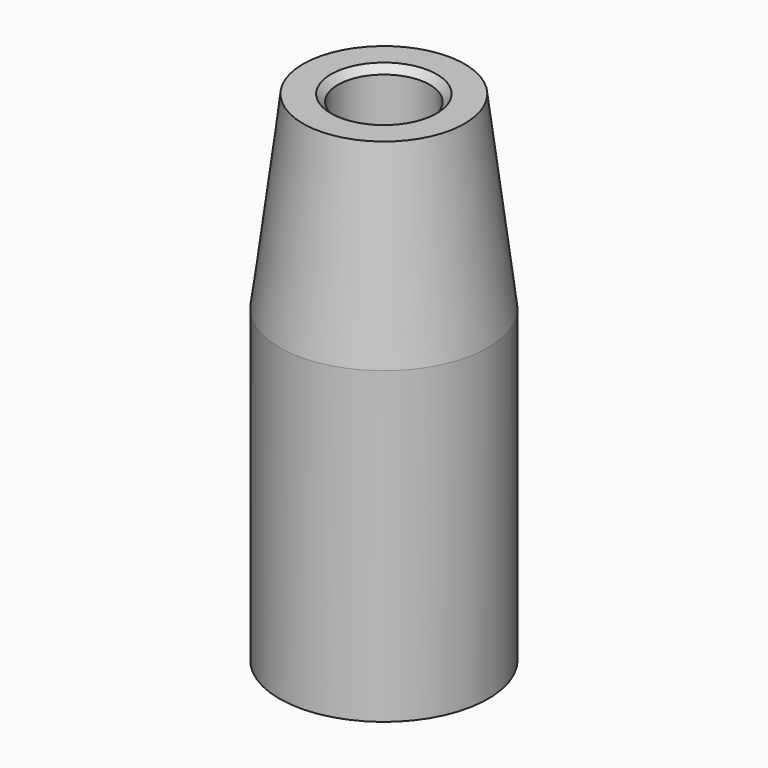
from build123d import *

# Parameters (mm, degrees)
F3_SIZE = 1.27
F4_SIZE = 1.27


with BuildPart() as f2:
    # F0 (on Front) → F2 (revolve)
    with BuildSketch(Plane.XZ):
        Polygon((-8.382, 0), (-8.382, 45.466), (-14.732, 45.466), (-19.05, 10.922), (-19.05, -45.466), (-8.382, -45.466), align=None)
    revolve(axis=Axis((0, 0, 0.149863), (0, 0, -1)))

    # F3
    f3_edges = [f2.edges().sort_by_distance(p)[0] for p in [
        (8.382, 0, 45.466),
    ]]
    chamfer(f3_edges, length=F3_SIZE)

    # F4
    f4_edges = [f2.edges().sort_by_distance(p)[0] for p in [
        (8.382, 0, -45.466),
    ]]
    chamfer(f4_edges, length=F4_SIZE)


solid = f2.part
